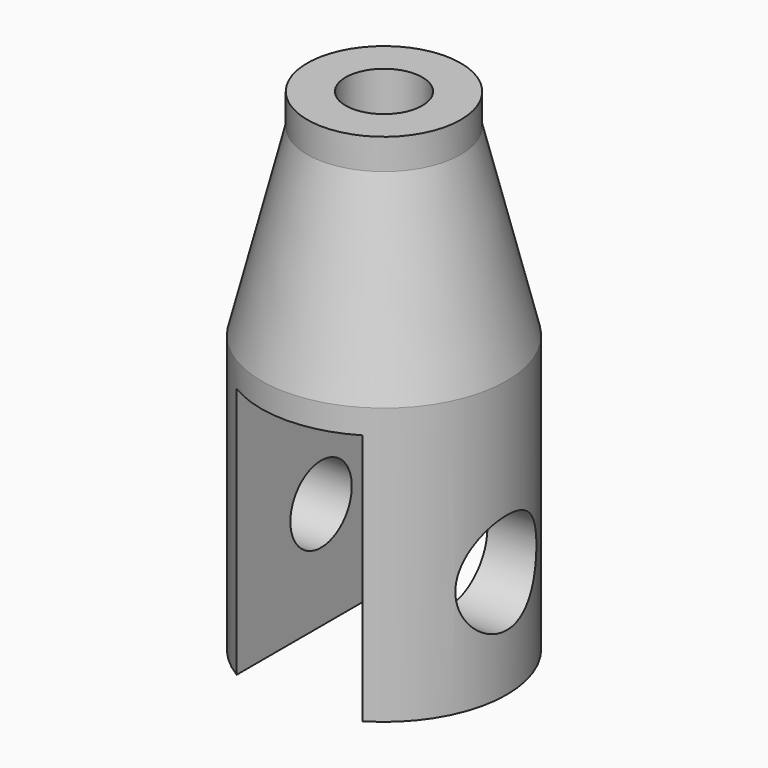
from build123d import *

# Parameters (mm, degrees)
F2_W          = 4.1
F2_H          = 8.2
F3_DEPTH      = 4.001
F3_DEPTH_BACK = 4.001
F5_D          = 3.3
F5_DEPTH      = 4.001
F6_D          = 2.5
F8_D          = 2.5


with BuildPart() as f1:
    # F0 (on Front) → F1 (revolve)
    with BuildSketch(Plane.XZ):
        Polygon((2.5, 0), (0, 0), (0, -16), (4, -16), (4, -7), (2.5, -1), align=None)
    revolve(axis=Axis((0, 0, -12.0333206053), (0, 0, -1)))

    # F2 (on Front) → F3 (cut, two sides)
    with BuildSketch(Plane.XZ) as f3_sk:
        with Locations((0, -11.9)):
            Rectangle(F2_W, F2_H)
    extrude(amount=F3_DEPTH, mode=Mode.SUBTRACT)
    extrude(f3_sk.sketch, amount=-F3_DEPTH_BACK, mode=Mode.SUBTRACT)

    # F5 (through all, one way)
    with BuildSketch(Plane(origin=(0, 0, 0), x_dir=(0, 1, 0), z_dir=(-1, 0, 0))):
        with Locations((0, 12.5)):
            Circle(F5_D / 2)
    extrude(amount=-F5_DEPTH, mode=Mode.SUBTRACT)

    # F6 (through all)
    with Locations(Plane.YZ):
        with Locations((0, -12.5)):
            Hole(F6_D / 2)

    # F8 (through all)
    with Locations(Plane.XY):
        with Locations((0, 0)):
            Hole(F8_D / 2)


solid = f1.part
